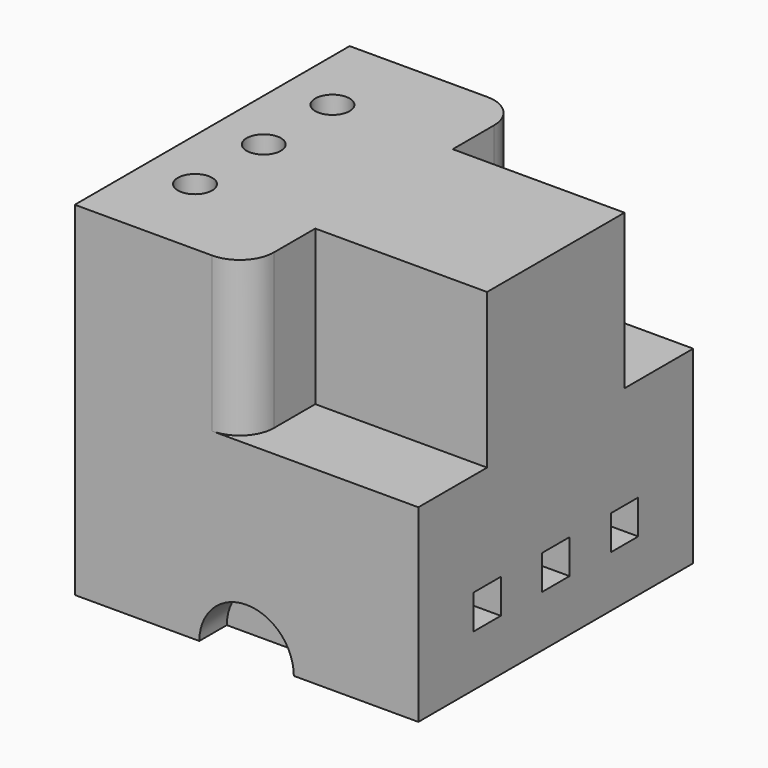
from build123d import *

# Parameters (mm, degrees)
F0_W     = 100
F0_H     = 100
F1_DEPTH = 100
F3_DEPTH = 45
F2_R     = 5
F4_DEPTH = 100.001
F5_W     = 10
F5_H     = 10
F6_DEPTH = 25
F8_DEPTH = 10


with BuildPart() as f1:
    # F0 (on Right) → F1 (new body)
    with BuildSketch(Plane.YZ):
        with Locations((50, 50)):
            Rectangle(F0_W, F0_H)
    extrude(amount=F1_DEPTH)

    # F2 (on face) → F3 (cut)
    with BuildSketch(Plane.XY.offset(100)):
        with BuildLine():
            Line((50, 75), (100, 75))
            Line((100, 75), (100, 100))
            Line((100, 100), (40, 100))
            ThreePointArc((40, 100), (47.071068, 97.071068), (50, 90))
            Line((50, 90), (50, 75))
        make_face()
        with BuildLine():
            Line((40, 0), (49.113125, 0))
            Line((49.113125, 0), (100, 0))
            Line((100, 0), (100, 25))
            Line((100, 25), (50, 25))
            Line((50, 25), (50, 10))
            ThreePointArc((50, 10), (47.071068, 2.928932), (40, 0))
        make_face()
    extrude(amount=-F3_DEPTH, mode=Mode.SUBTRACT)

    # F2 (on face) → F4 (cut, through all)
    with BuildSketch(Plane.XY.offset(100)):
        with Locations((15, 25)):
            Circle(F2_R)
        with Locations((15, 50)):
            Circle(F2_R)
        with Locations((15, 75)):
            Circle(F2_R)
    extrude(amount=-F4_DEPTH, mode=Mode.SUBTRACT)

    # F5 (on face) → F6 (cut)
    with BuildSketch(Plane.YZ.offset(100)):
        with Locations((25, 20)):
            Rectangle(F5_W, F5_H)
        with Locations((50, 20)):
            Rectangle(F5_W, F5_H)
        with Locations((75, 20)):
            Rectangle(F5_W, F5_H)
    extrude(amount=-F6_DEPTH, mode=Mode.SUBTRACT)

    # F7 (on face) → F8 (cut)
    with BuildSketch(Plane.XZ):
        with BuildLine():
            Line((36.25, 0), (63.75, 0))
            ThreePointArc((63.75, 0), (50, 13.75), (36.25, 0))
        make_face()
    extrude(amount=-F8_DEPTH, mode=Mode.SUBTRACT)


solid = f1.part
